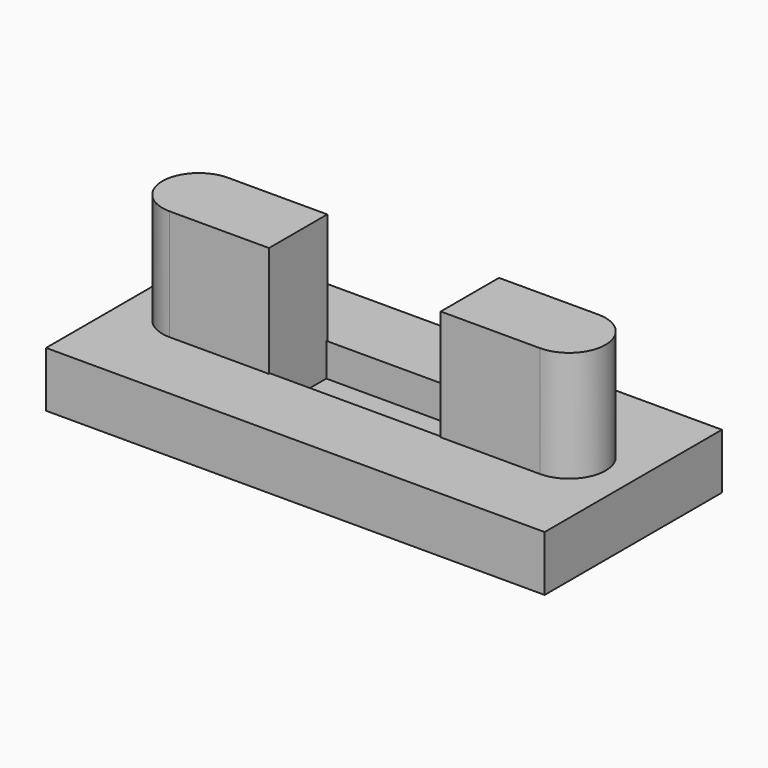
from build123d import *

# Parameters (mm, degrees)
F0_W     = 90
F0_H     = 40
F1_DEPTH = 10
F2_W     = 31
F2_H     = 12.7
F3_DEPTH = 6
F5_DEPTH = 20
F6_ANGLE = 270


with BuildPart() as f1:
    # F0 (on Front) → F1 (new body)
    with BuildSketch(Plane.XZ):
        with Locations((4.450109, -11.269131)):
            Rectangle(F0_W, F0_H)
    extrude(amount=F1_DEPTH)

    # F2 (on face) → F3 (cut)
    with BuildSketch(Plane.XZ.offset(10)):
        with Locations((4.450109, -11.269131)):
            Rectangle(F2_W, F2_H)
    extrude(amount=-F3_DEPTH, mode=Mode.SUBTRACT)

    # F4 (on face) → F5 (join)
    with BuildSketch(Plane.XZ.offset(10)):
        with BuildLine():
            ThreePointArc((37.875109, -17.844131), (44.450109, -11.269131), (37.875109, -4.694131))
            Line((37.875109, -4.694131), (19.950109, -4.694131))
            Line((19.950109, -4.694131), (19.950109, -17.844131))
            Line((19.950109, -17.844131), (37.875109, -17.844131))
        make_face()
        with BuildLine():
            Line((-28.974891, -17.844131), (-11.049891, -17.844131))
            Line((-11.049891, -17.844131), (-11.049891, -4.694131))
            Line((-11.049891, -4.694131), (-28.974891, -4.694131))
            ThreePointArc((-28.974891, -4.694131), (-35.549891, -11.269131), (-28.974891, -17.844131))
        make_face()
    extrude(amount=F5_DEPTH)


with BuildPart() as f1_1:
    # F6: moved
    add(f1.part.rotate(Axis((4.450109, 0, 8.730869), (1, 0, 0)), F6_ANGLE))


solid = f1_1.part
